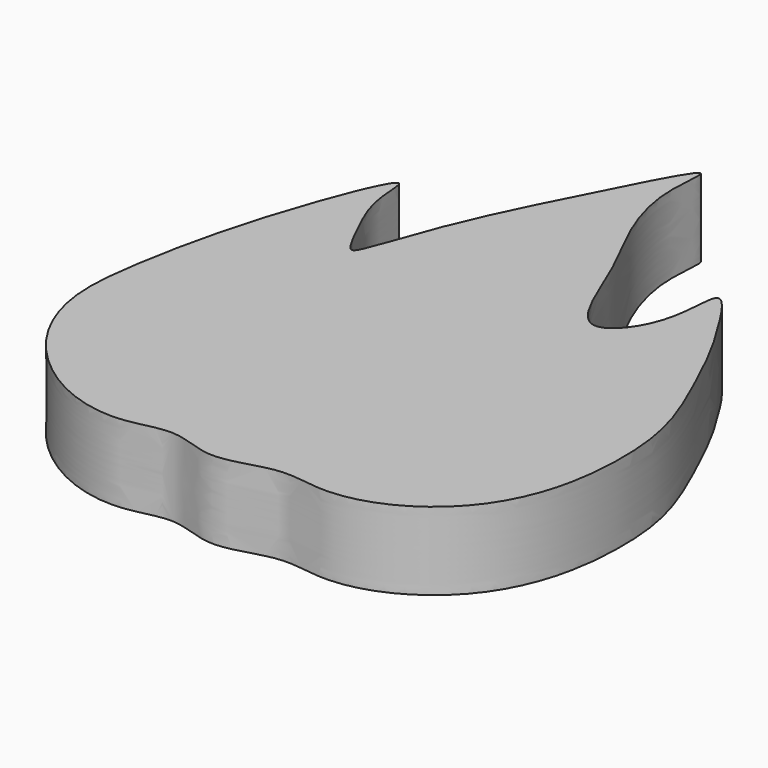
from build123d import *

# Parameters (mm, degrees)
F1_DEPTH = 6.35


with BuildPart() as f1:
    # F0 (on Top) → F1 (new body)
    with BuildSketch(Plane.XY):
        with BuildLine():
            add(Edge.make_bspline(
                [(-4.2399005033, -30.0919730216), (-3.0207310998, -30.1816212322), (-0.497911261, -31.6789457962), (4.1798077534, -29.4375778946), (7.8263865782, -30.5327556597), (12.5074454345, -29.6474035719), (17.1928405609, -26.2047330065), (19.8863055656, -20.6285815432), (20.3540666538, -14.0490906259), (19.6061900791, -9.0696384476), (17.4482408755, -4.1324962384), (15.4411600284, 0.1116043842), (13.8126929301, 2.8264460779), (10.4593374008, 8.108713399), (11.16757001, 1.5548586084), (6.7269002234, -4.1091990931), (3.6586812429, 5.0415588979), (0.8787634783, 9.6218233579), (-0.9079362842, 15.1600421006), (0.2145652265, 21.1671669354), (-4.4906040869, 11.842637481), (-8.5905831788, 3.8536374934), (-10.5484654847, -2.5179758533), (-11.3463888869, -3.6479980829), (-12.8088356665, -0.5933254868), (-14.5155508654, 2.7787590061), (-14.2770458277, 8.2445035175), (-18.8373645706, -3.5283910598), (-20.7963860622, -13.1138193628), (-21.4433138616, -19.4135183636), (-19.1980932469, -25.2954788137), (-13.9471802566, -29.9321627704), (-8.2334037622, -31.199924784), (-5.4783655925, -30.0009059568), (-4.2399005033, -30.0919730216)],
                knots=[0, 0, 0, 0, 0.0270471559, 0.0570309824, 0.0834505768, 0.1127641149, 0.1454335059, 0.179427387, 0.2145100607, 0.2454122135, 0.2773625024, 0.3066868595, 0.3334242926, 0.360099074, 0.3887806171, 0.4188681878, 0.4554244353, 0.4895579633, 0.5235560319, 0.5479036775, 0.5840201922, 0.6297410922, 0.6640014916, 0.6751353727, 0.6975351461, 0.7271521812, 0.7490005011, 0.7902214765, 0.8367051783, 0.8703128112, 0.9039354489, 0.9400149306, 0.9725247712, 1, 1, 1, 1], degree=3))
        make_face()
    extrude(amount=F1_DEPTH)


solid = f1.part
